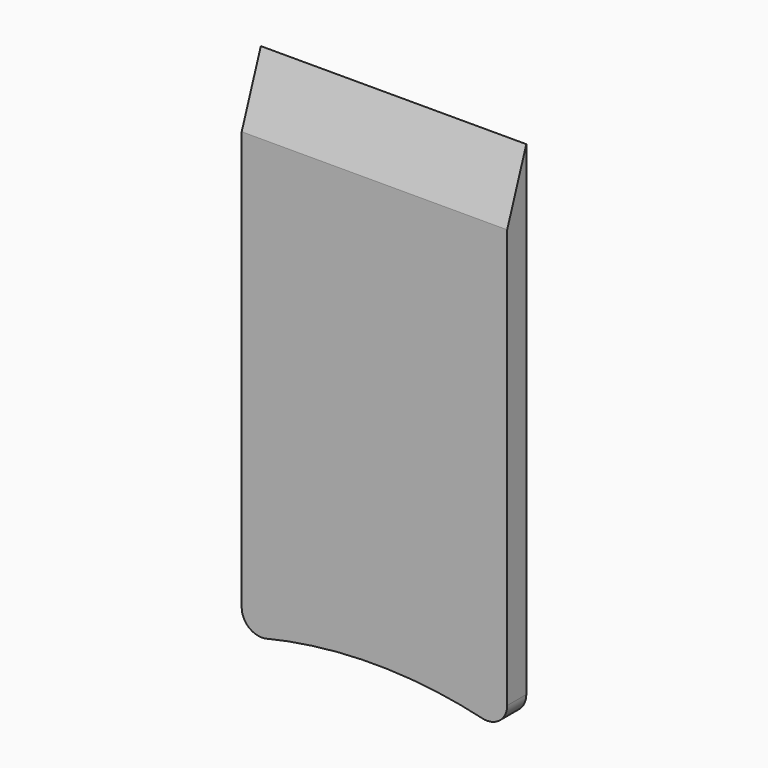
from build123d import *

# Parameters (mm, degrees)
F1_DEPTH = 18
F3_DEPTH = 200
F4_R     = 15


with BuildPart() as f1:
    # F0 (on Front) → F1 (new body)
    with BuildSketch(Plane.XZ):
        with BuildLine():
            Line((0, -380), (0, 0))
            Line((0, 0), (-200, 0))
            Line((-200, 0), (-200, -380))
            Line((-200, -380), (-183.066239, -380))
            ThreePointArc((-183.066239, -380), (-100, -370), (-16.933761, -380))
            Line((-16.933761, -380), (0, -380))
        make_face()
    extrude(amount=F1_DEPTH)

    # F2 (on face) → F3 (cut, through all)
    with BuildSketch(Plane(origin=(-200, 0, 0), x_dir=(0, -1, 0), z_dir=(-1, 0, 0))):
        Polygon((18, -49.454594), (18, 0), (0, 0), align=None)
    extrude(amount=-F3_DEPTH, mode=Mode.SUBTRACT)

    # F4
    f4_edges = [f1.edges().sort_by_distance(p)[0] for p in [
        (-200, -9, -380),
        (0, -9, -380),
    ]]
    fillet(f4_edges, radius=F4_R)


solid = f1.part
